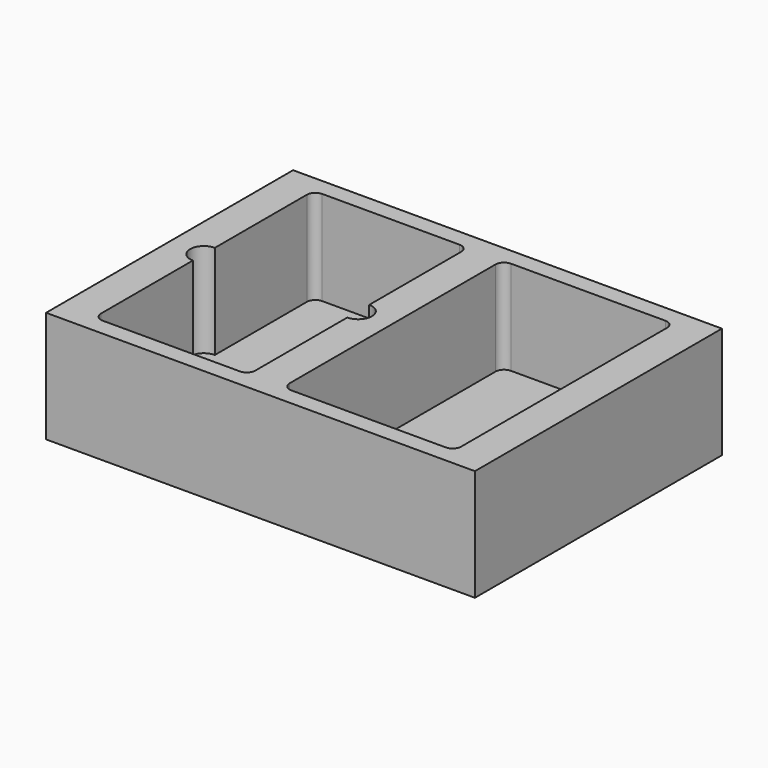
from build123d import *

# Parameters (mm, degrees)
F0_W     = 317.5
F0_H     = 228.6
F1_DEPTH = 82.55
F3_DEPTH = 69.85


with BuildPart() as f1:
    # F0 (on Top) → F1 (new body)
    with BuildSketch(Plane.XY):
        Rectangle(F0_W, F0_H)
    extrude(amount=F1_DEPTH)

    # F2 (on face) → F3 (cut)
    with BuildSketch(Plane.XY.offset(82.55)):
        with BuildLine():
            Line((-127, -101.6), (-25.4, -101.6))
            ThreePointArc((-25.4, -101.6), (-20.9098719395, -99.7401280605), (-19.05, -95.25))
            Line((-19.05, -95.25), (-19.05, -10.16))
            ThreePointArc((-19.05, -10.16), (-29.21, 0), (-19.05, 10.16))
            Line((-19.05, 10.16), (-19.05, 95.25))
            ThreePointArc((-19.05, 95.25), (-20.9098719395, 99.7401280605), (-25.4, 101.6))
            Line((-25.4, 101.6), (-127, 101.6))
            ThreePointArc((-127, 101.6), (-131.4901280605, 99.7401280605), (-133.35, 95.25))
            Line((-133.35, 95.25), (-133.35, 10.16))
            ThreePointArc((-133.35, 10.16), (-126.1657951031, 7.1842048969), (-123.19, 0))
            ThreePointArc((-123.19, 0), (-126.1657951031, -7.1842048969), (-133.35, -10.16))
            Line((-133.35, -10.16), (-133.35, -95.25))
            ThreePointArc((-133.35, -95.25), (-131.4901280605, -99.7401280605), (-127, -101.6))
        make_face()
        with BuildLine():
            ThreePointArc((-19.05, 10.16), (-29.21, 0), (-19.05, -10.16))
            Line((-19.05, -10.16), (-19.05, 10.16))
        make_face()
        with BuildLine():
            Line((-19.05, 10.16), (-19.05, -10.16))
            ThreePointArc((-19.05, -10.16), (-11.8657951031, -7.1842048969), (-8.89, 0))
            ThreePointArc((-8.89, 0), (-11.8657951031, 7.1842048969), (-19.05, 10.16))
        make_face()
        with BuildLine():
            ThreePointArc((-133.35, 10.16), (-143.51, 0), (-133.35, -10.16))
            Line((-133.35, -10.16), (-133.35, 10.16))
        make_face()
        with BuildLine():
            Line((-133.35, 10.16), (-133.35, -10.16))
            ThreePointArc((-133.35, -10.16), (-126.1657951031, -7.1842048969), (-123.19, 0))
            ThreePointArc((-123.19, 0), (-126.1657951031, 7.1842048969), (-133.35, 10.16))
        make_face()
        with BuildLine():
            ThreePointArc((133.35, 95.25), (131.4901280605, 99.7401280605), (127, 101.6))
            Line((127, 101.6), (12.7, 101.6))
            ThreePointArc((12.7, 101.6), (8.2098719395, 99.7401280605), (6.35, 95.25))
            Line((6.35, 95.25), (6.35, -95.25))
            ThreePointArc((6.35, -95.25), (8.2098719395, -99.7401280605), (12.7, -101.6))
            Line((12.7, -101.6), (127, -101.6))
            ThreePointArc((127, -101.6), (131.4901280605, -99.7401280605), (133.35, -95.25))
            Line((133.35, -95.25), (133.35, 95.25))
        make_face()
    extrude(amount=-F3_DEPTH, mode=Mode.SUBTRACT)


solid = f1.part
